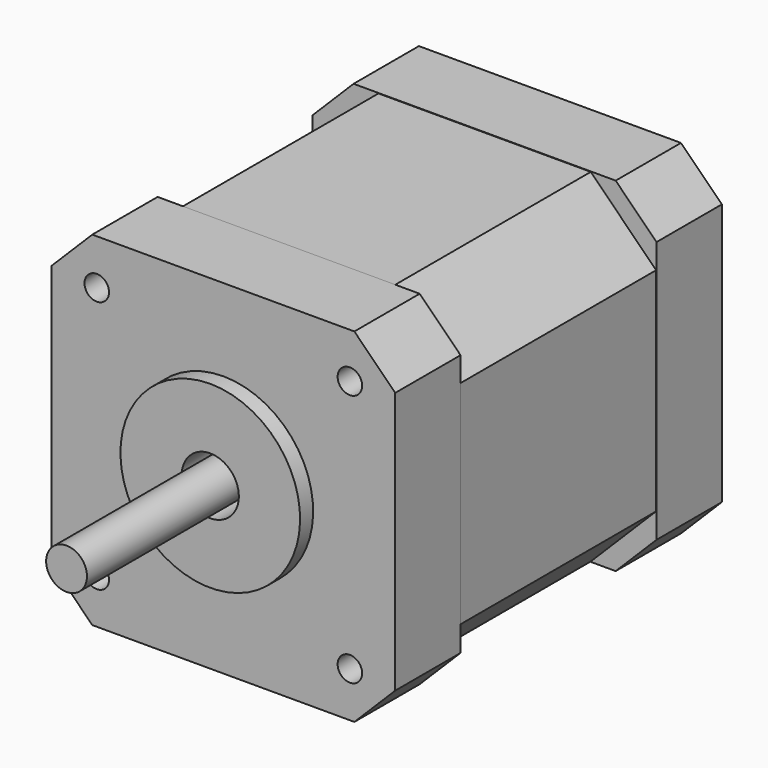
from build123d import *

# Parameters (mm, degrees)
SKETCH005_R  = 2.5
PAD003_DEPTH = 49
SKETCH002_R  = 11
PAD001_DEPTH = 10
SKETCH003_R  = 1.5
POCKET_DEPTH = 4.5
PAD_DEPTH    = 15
PAD002_DEPTH = 10


with BuildPart() as shaft:
    # Sketch005 → Pad003 (new body)
    with BuildSketch(Plane.XZ):
        Circle(SKETCH005_R)
    extrude(amount=PAD003_DEPTH)


with BuildPart() as front_holes:
    # Sketch002 → Pad001 (new body)
    with BuildSketch(Plane.XZ.offset(15)):
        Polygon((-21.05, -16.05), (-21.05, 16.05), (-16.05, 21.05), (16.05, 21.05), (21.05, 16.05), (21.05, -16.05), (16.05, -21.05), (-16.05, -21.05), align=None)
        Circle(SKETCH002_R, mode=Mode.SUBTRACT)
    extrude(amount=PAD001_DEPTH)

    # Sketch003 → Pocket (cut)
    with BuildSketch(Plane.XZ.offset(25)):
        with Locations((-15.5, 15.5)):
            Circle(SKETCH003_R)
        with Locations((15.5, 15.5)):
            Circle(SKETCH003_R)
        with Locations((-15.5, -15.5)):
            Circle(SKETCH003_R)
        with Locations((15.5, -15.5)):
            Circle(SKETCH003_R)
    extrude(amount=-POCKET_DEPTH, mode=Mode.SUBTRACT)


with BuildPart() as center:
    # Sketch001 → Revolution (revolve)
    with BuildSketch(Plane.YZ):
        Polygon((-24, 12), (0, 12), (0, 0), (-22, 0), (-22, 3.5), (-27, 3.5), (-27, 11), (-24, 11), align=None)
    revolve(axis=Axis((0, 0, 0), (0, 1, 0)))


with BuildPart() as front_middle_center:
    # Sketch → Pad (new body, symmetric)
    with BuildSketch(Plane.XZ):
        Polygon((-21, 13), (-21, -13), (-13, -21), (13, -21), (21, -13), (21, 13), (13, 21), (-13, 21), align=None)
    extrude(amount=PAD_DEPTH, both=True)

    # Fusion: union center
    add(center.part)

    # Fusion001: union front-holes
    add(front_holes.part)


with BuildPart() as nema17:
    # Sketch004 → Pad002 (new body)
    with BuildSketch(Plane(origin=(0, 15, 0), x_dir=(-1, 0, 0), z_dir=(0, 1, 0))):
        Polygon((-21.05, -16.05), (-21.05, 16.05), (-16.05, 21.05), (16.05, 21.05), (21.05, 16.05), (21.05, -16.05), (16.05, -21.05), (-16.05, -21.05), align=None)
    extrude(amount=PAD002_DEPTH)

    # Fusion002: union front-middle-center
    add(front_middle_center.part)

    # Fusion003: union shaft
    add(shaft.part)


solid = nema17.part
